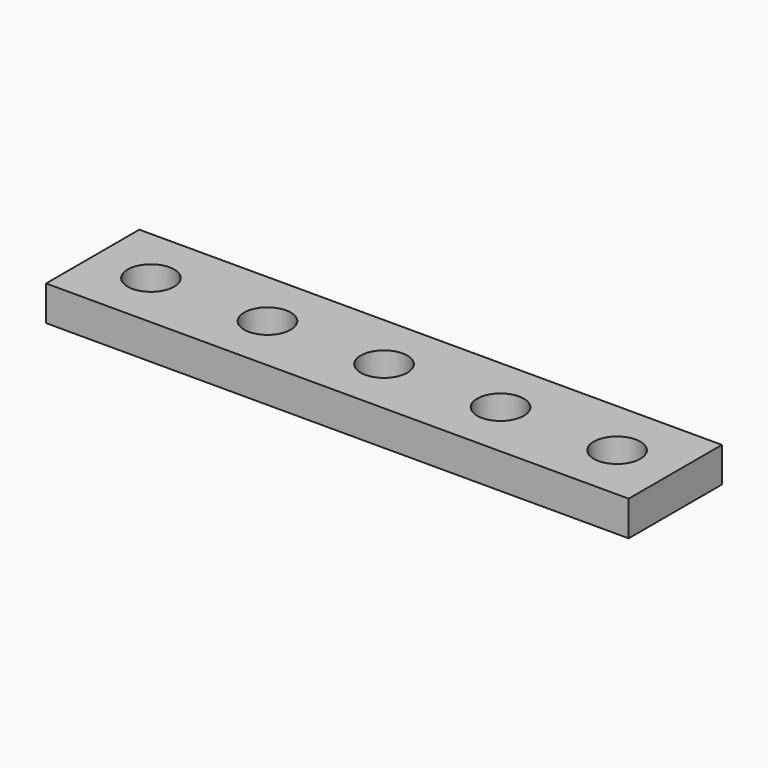
from build123d import *

# Parameters (mm, degrees)
CYLINDER_R     = 2
CYLINDER_DEPTH = 10
ARRAY_X_COUNT  = 5
ARRAY_X_PITCH  = 10
BOX_W          = 50
BOX_H          = 10
BOX_DEPTH      = 3


with BuildPart() as array:
    # Cylinder → Cylinder (new body)
    with BuildSketch(Plane(origin=(5, 5, 0), x_dir=(1, 0, 0), z_dir=(0, 0, 1))):
        Circle(CYLINDER_R)
    extrude(amount=CYLINDER_DEPTH)

    # Array X: Array ×5


with BuildPart() as array_1:
    add(array.part)
    with Locations(*[(i * ARRAY_X_PITCH, 0, 0) for i in range(1, ARRAY_X_COUNT)]):
        add(array.part)


with BuildPart() as cut:
    # Box → Box (new body)
    with BuildSketch(Plane.XY):
        with Locations((25, 5)):
            Rectangle(BOX_W, BOX_H)
    extrude(amount=BOX_DEPTH)

    # Cut: cut Array
    add(array_1.part, mode=Mode.SUBTRACT)


solid = cut.part
